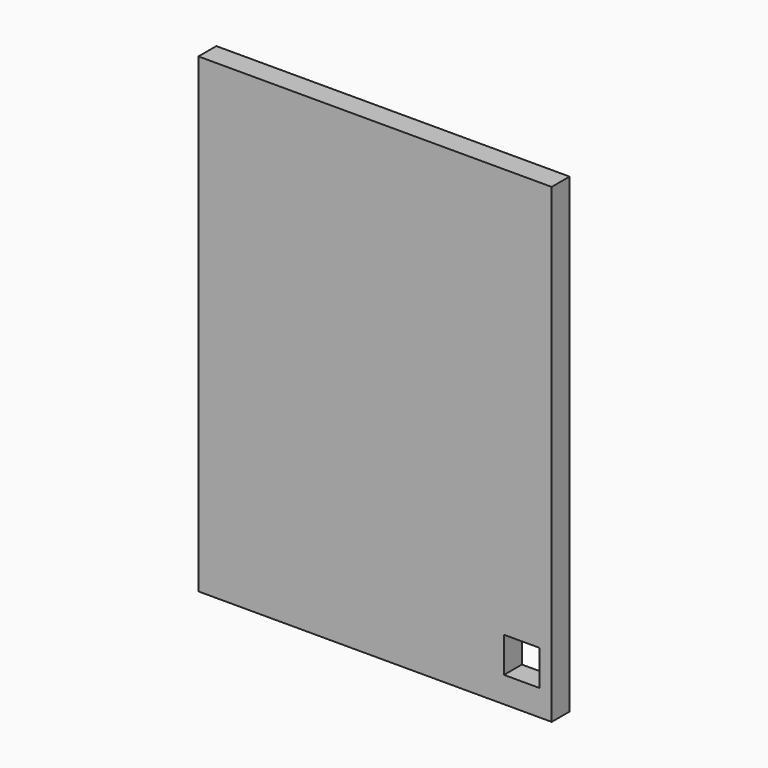
from build123d import *

# Parameters (mm, degrees)
F0_W     = 300
F0_H     = 400
F1_DEPTH = 19
F3_DEPTH = 8
F4_W     = 30
F4_H     = 30
F5_DEPTH = 11
F6_DEPTH = 11


with BuildPart() as f1:
    # F0 (on Front) → F1 (new body)
    with BuildSketch(Plane.XZ):
        with Locations((-2.579447, -34.794102)):
            Rectangle(F0_W, F0_H)
    extrude(amount=F1_DEPTH)

    # F2 (on face) → F3 (cut)
    with BuildSketch(Plane(origin=(0, 0, 0), x_dir=(-1, 0, 0), z_dir=(0, 1, 0))):
        Polygon((-136.920553, 155.205898), (-136.920553, -212.794102), (-106.920553, -212.794102), (-106.920553, 125.205898), (-95.420553, 125.205898), (-95.420553, -212.794102), (-23.920553, -212.794102), (-23.920553, 125.205898), (-12.420553, 125.205898), (-12.420553, -212.794102), (59.079447, -212.794102), (59.079447, 125.205898), (70.579447, 125.205898), (70.579447, -212.794102), (142.079447, -212.794102), (142.079447, 155.205898), (112.079447, 155.205898), (112.079447, -182.794102), (100.579447, -182.794102), (100.579447, 155.205898), (29.079447, 155.205898), (29.079447, -182.794102), (17.579447, -182.794102), (17.579447, 155.205898), (-53.920553, 155.205898), (-53.920553, -182.794102), (-65.420553, -182.794102), (-65.420553, 155.205898), align=None)
    extrude(amount=-F3_DEPTH, mode=Mode.SUBTRACT)

    # F4 (on face) → F5 (join)
    with BuildSketch(Plane(origin=(0, -8, 0), x_dir=(-1, 0, 0), z_dir=(0, 1, 0))):
        with Locations((-121.920553, -197.794102)):
            Rectangle(F4_W, F4_H)
    extrude(amount=-F5_DEPTH)

    # F4 (on face) → F6 (cut)
    with BuildSketch(Plane(origin=(0, -8, 0), x_dir=(-1, 0, 0), z_dir=(0, 1, 0))):
        with Locations((-121.920553, -197.794102)):
            Rectangle(F4_W, F4_H)
    extrude(amount=-F6_DEPTH, mode=Mode.SUBTRACT)


solid = f1.part
